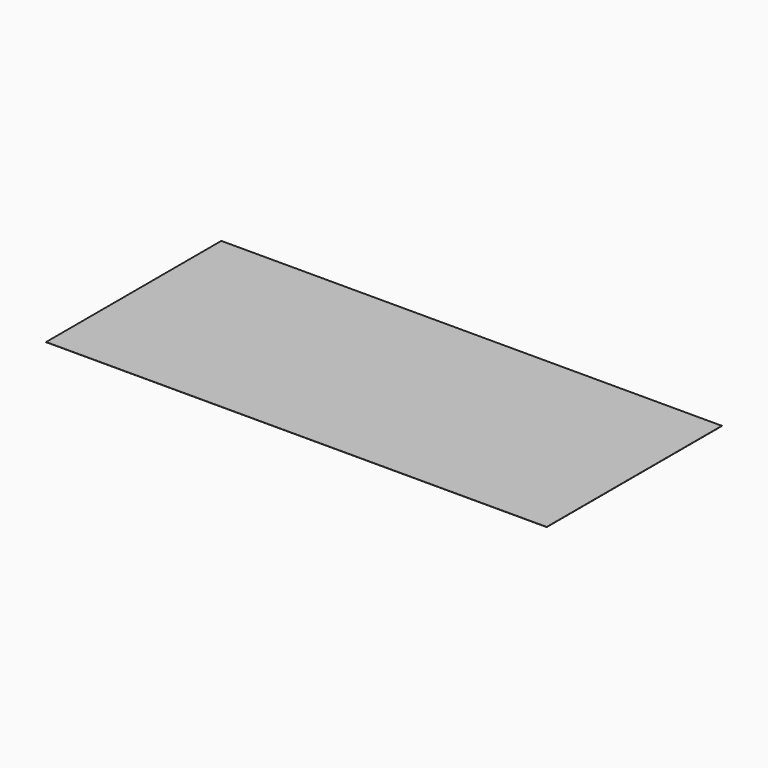
from build123d import *

# Parameters (mm, degrees)
BOX_W     = 32
BOX_H     = 14
BOX_DEPTH = 0.01


with BuildPart() as part:
    # Box → Box (new body)
    with BuildSketch(Plane.XY):
        with Locations((16, 7)):
            Rectangle(BOX_W, BOX_H)
    extrude(amount=BOX_DEPTH)


solid = part.part
